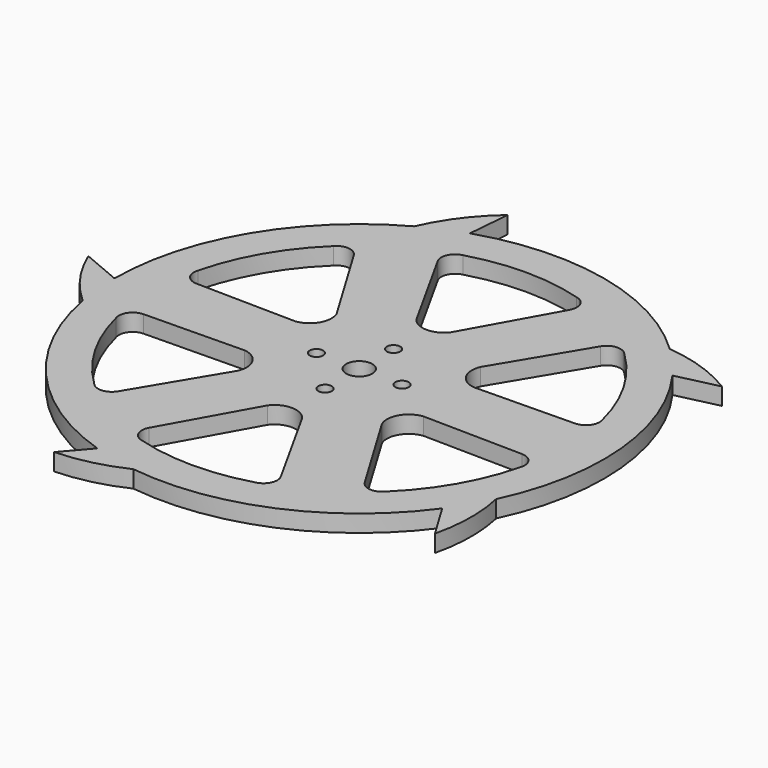
from build123d import *

# Parameters (mm, degrees)
F0_R     = 1.575
F0_R_2   = 3.05
F1_DEPTH = 4


with BuildPart() as f1:
    # F0 (on Top) → F1 (new body)
    with BuildSketch(Plane.XY):
        with BuildLine():
            ThreePointArc((-66.362554, 3.889581), (-62.092779, -3.869236), (-56.183578, -10.465566))
            ThreePointArc((-56.183578, -10.465566), (-42.950605, -37.701035), (-17.660321, -54.35288))
            Line((-17.660321, -54.35288), (-22.897159, -60.400651))
            ThreePointArc((-22.897159, -60.400651), (-14.960223, -59.333067), (-7.408336, -56.667796))
            ThreePointArc((-7.408336, -56.667796), (22.583349, -52.498713), (46.235321, -33.591927))
            Line((46.235321, -33.591927), (51.402196, -42.153668))
            ThreePointArc((51.402196, -42.153668), (52.508394, -33.366942), (51.604975, -24.557058))
            ThreePointArc((51.604975, -24.557058), (56.907882, 5.255046), (46.235321, 33.591927))
            Line((46.235321, 33.591927), (55.974673, 35.860194))
            ThreePointArc((55.974673, 35.860194), (47.959834, 39.627498), (39.301964, 41.490699))
            ThreePointArc((39.301964, 41.490699), (12.587657, 55.74651), (-17.660321, 54.35288))
            Line((-17.660321, 54.35288), (-16.807946, 64.316486))
            ThreePointArc((-16.807946, 64.316486), (-22.867587, 57.858083), (-27.315025, 50.19972))
            ThreePointArc((-27.315025, 50.19972), (-49.128282, 29.198192), (-57.15, 0))
            Line((-57.15, 0), (-66.362554, 3.889581))
        make_face()
        with BuildLine():
            ThreePointArc((-33.939505, -34.900173), (-42.205105, -24.367129), (-47.194189, -11.942387))
            ThreePointArc((-47.194189, -11.942387), (-46.760906, -9.079501), (-44.198279, -7.731618))
            Line((-44.198279, -7.731618), (-20.853145, -7.357517))
            ThreePointArc((-20.853145, -7.357517), (-17.06203, -9.850768), (-16.798369, -14.380595))
            Line((-16.798369, -14.380595), (-28.794917, -34.411023))
            ThreePointArc((-28.794917, -34.411023), (-31.243532, -35.956382), (-33.939505, -34.900173))
        make_face(mode=Mode.SUBTRACT)
        with Locations((-10, 0)):
            Circle(F0_R, mode=Mode.SUBTRACT)
        with BuildLine():
            ThreePointArc((13.254683, -46.84256), (0, -48.734257), (-13.254683, -46.84256))
            ThreePointArc((-13.254683, -46.84256), (-15.517374, -45.035883), (-15.403362, -42.142641))
            Line((-15.403362, -42.142641), (-4.054776, -21.738112))
            ThreePointArc((-4.054776, -21.738112), (0, -19.701535), (4.054776, -21.738112))
            Line((4.054776, -21.738112), (15.403362, -42.142641))
            ThreePointArc((15.403362, -42.142641), (15.517374, -45.035883), (13.254683, -46.84256))
        make_face(mode=Mode.SUBTRACT)
        with Locations((0, -10)):
            Circle(F0_R, mode=Mode.SUBTRACT)
        Circle(F0_R_2, mode=Mode.SUBTRACT)
        with Locations((10, 0)):
            Circle(F0_R, mode=Mode.SUBTRACT)
        with BuildLine():
            ThreePointArc((47.194189, -11.942387), (42.205105, -24.367129), (33.939505, -34.900173))
            ThreePointArc((33.939505, -34.900173), (31.243532, -35.956382), (28.794917, -34.411023))
            Line((28.794917, -34.411023), (16.798369, -14.380595))
            ThreePointArc((16.798369, -14.380595), (17.06203, -9.850768), (20.853145, -7.357517))
            Line((20.853145, -7.357517), (44.198279, -7.731618))
            ThreePointArc((44.198279, -7.731618), (46.760906, -9.079501), (47.194189, -11.942387))
        make_face(mode=Mode.SUBTRACT)
        with BuildLine():
            ThreePointArc((-47.194189, 11.942387), (-42.205105, 24.367129), (-33.939505, 34.900173))
            ThreePointArc((-33.939505, 34.900173), (-31.243532, 35.956382), (-28.794917, 34.411023))
            Line((-28.794917, 34.411023), (-16.798369, 14.380595))
            ThreePointArc((-16.798369, 14.380595), (-17.06203, 9.850768), (-20.853145, 7.357517))
            Line((-20.853145, 7.357517), (-44.198279, 7.731618))
            ThreePointArc((-44.198279, 7.731618), (-46.760906, 9.079501), (-47.194189, 11.942387))
        make_face(mode=Mode.SUBTRACT)
        with Locations((0, 10)):
            Circle(F0_R, mode=Mode.SUBTRACT)
        with BuildLine():
            ThreePointArc((20.853145, 7.357517), (17.06203, 9.850768), (16.798369, 14.380595))
            Line((16.798369, 14.380595), (28.794917, 34.411023))
            ThreePointArc((28.794917, 34.411023), (31.243532, 35.956382), (33.939505, 34.900173))
            ThreePointArc((33.939505, 34.900173), (42.205105, 24.367129), (47.194189, 11.942387))
            ThreePointArc((47.194189, 11.942387), (46.760906, 9.079501), (44.198279, 7.731618))
            Line((44.198279, 7.731618), (20.853145, 7.357517))
        make_face(mode=Mode.SUBTRACT)
        with BuildLine():
            Line((15.403362, 42.142641), (4.054776, 21.738112))
            ThreePointArc((4.054776, 21.738112), (0, 19.701535), (-4.054776, 21.738112))
            Line((-4.054776, 21.738112), (-15.403362, 42.142641))
            ThreePointArc((-15.403362, 42.142641), (-15.517374, 45.035883), (-13.254683, 46.84256))
            ThreePointArc((-13.254683, 46.84256), (0, 48.734257), (13.254683, 46.84256))
            ThreePointArc((13.254683, 46.84256), (15.517374, 45.035883), (15.403362, 42.142641))
        make_face(mode=Mode.SUBTRACT)
    extrude(amount=F1_DEPTH)


solid = f1.part
